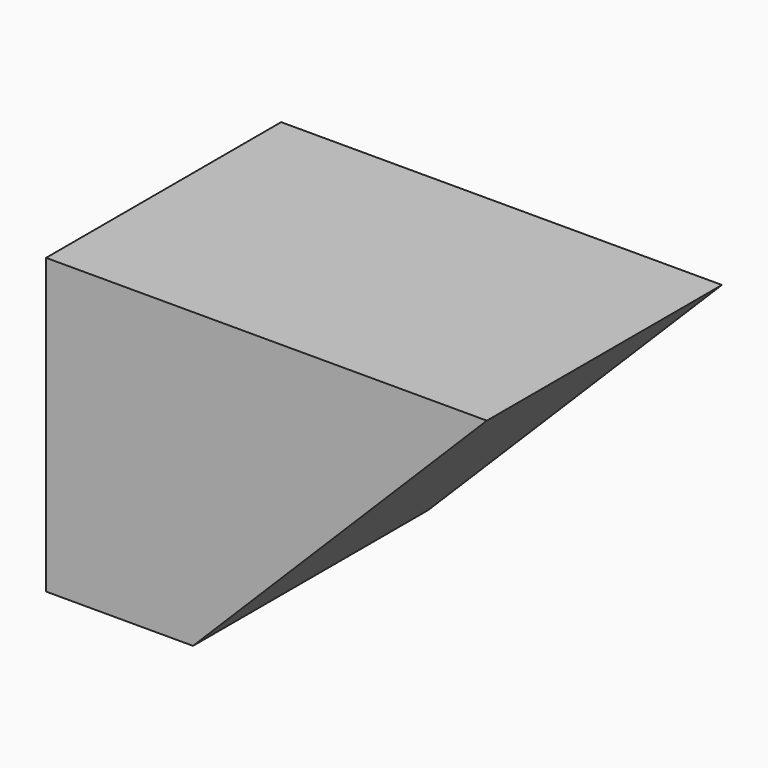
from build123d import *

# Parameters (mm, degrees)
PAD_DEPTH = 100


with BuildPart() as part:
    # Sketch → Pad (new body)
    with BuildSketch(Plane.XZ):
        Polygon((0, 100), (0, 0), (50, 0), (150, 100), align=None)
    extrude(amount=PAD_DEPTH)


solid = part.part
